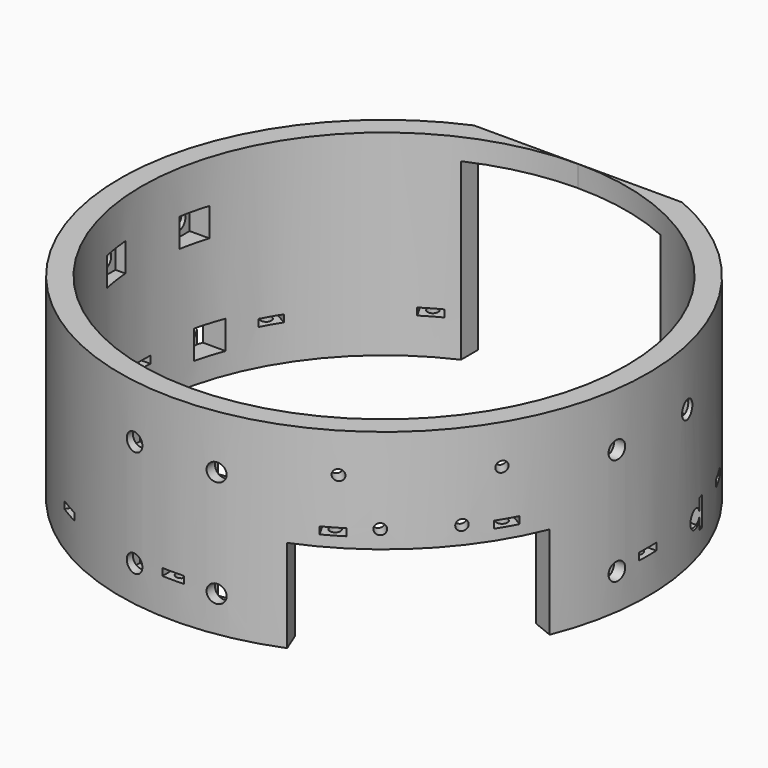
from build123d import *

# Parameters (mm, degrees)
CYLINDER1915_R               = 2.5
CYLINDER1915_DEPTH           = 40
CYLINDER1913_R               = 2.5
CYLINDER1913_DEPTH           = 40
COMPOUND1014_PLACEMENT_ANGLE = 90
CYLINDER1914_R               = 2.5
CYLINDER1914_DEPTH           = 40
CYLINDER1916_R               = 2.5
CYLINDER1916_DEPTH           = 40
COMPOUND1013_PLACEMENT_ANGLE = 90
CYLINDER1941_R               = 2.5
CYLINDER1941_DEPTH           = 40
CYLINDER1939_R               = 2.5
CYLINDER1939_DEPTH           = 40
CYLINDER1942_R               = 2.5
CYLINDER1942_DEPTH           = 40
CYLINDER1940_R               = 2.5
CYLINDER1940_DEPTH           = 40
CYLINDER1911_R               = 2.5
CYLINDER1911_DEPTH           = 40
CYLINDER1909_R               = 2.5
CYLINDER1909_DEPTH           = 40
CYLINDER1912_R               = 2.5
CYLINDER1912_DEPTH           = 40
CYLINDER1910_R               = 2.5
CYLINDER1910_DEPTH           = 40
BOX907_W                     = 8
BOX907_H                     = 2.5
BOX907_DEPTH                 = 8
BOX908_W                     = 8
BOX908_H                     = 2.5
BOX908_DEPTH                 = 8
COMPOUND1018_PLACEMENT_ANGLE = 90
BOX909_W                     = 8
BOX909_H                     = 2.5
BOX909_DEPTH                 = 8
BOX910_W                     = 8
BOX910_H                     = 2.5
BOX910_DEPTH                 = 8
COMPOUND1019_PLACEMENT_ANGLE = 90
BOX939_W                     = 8
BOX939_H                     = 2.5
BOX939_DEPTH                 = 8
BOX940_W                     = 8
BOX940_H                     = 2.5
BOX940_DEPTH                 = 8
BOX941_W                     = 8
BOX941_H                     = 2.5
BOX941_DEPTH                 = 8
BOX938_W                     = 8
BOX938_H                     = 2.5
BOX938_DEPTH                 = 8
BOX905_W                     = 8
BOX905_H                     = 2.5
BOX905_DEPTH                 = 8
BOX906_W                     = 8
BOX906_H                     = 2.5
BOX906_DEPTH                 = 8
BOX912_W                     = 8
BOX912_H                     = 2.5
BOX912_DEPTH                 = 8
BOX904_W                     = 8
BOX904_H                     = 2.5
BOX904_DEPTH                 = 8
BOX901_W                     = 8
BOX901_H                     = 20
BOX901_DEPTH                 = 8
BOX900_W                     = 8
BOX900_H                     = 20
BOX900_DEPTH                 = 8
COMPOUND1010_PLACEMENT_ANGLE = 90
BOX903_W                     = 8
BOX903_H                     = 20
BOX903_DEPTH                 = 8
BOX902_W                     = 8
BOX902_H                     = 20
BOX902_DEPTH                 = 8
COMPOUND1011_PLACEMENT_ANGLE = 90
BOX934_W                     = 8
BOX934_H                     = 20
BOX934_DEPTH                 = 8
BOX936_W                     = 8
BOX936_H                     = 20
BOX936_DEPTH                 = 8
BOX937_W                     = 8
BOX937_H                     = 20
BOX937_DEPTH                 = 8
BOX935_W                     = 8
BOX935_H                     = 20
BOX935_DEPTH                 = 8
BOX897_W                     = 8
BOX897_H                     = 20
BOX897_DEPTH                 = 8
BOX899_W                     = 8
BOX899_H                     = 20
BOX899_DEPTH                 = 8
BOX911_W                     = 8
BOX911_H                     = 20
BOX911_DEPTH                 = 8
BOX898_W                     = 8
BOX898_H                     = 20
BOX898_DEPTH                 = 8
BOX895_W                     = 6
BOX895_H                     = 4
BOX895_DEPTH                 = 6
BOX896_W                     = 6
BOX896_H                     = 4
BOX896_DEPTH                 = 6
COMPOUND1007_PLACEMENT_ANGLE = 225
CYLINDER1908_R               = 1.5
CYLINDER1908_DEPTH           = 50
COMPOUND1005_PLACEMENT_ANGLE = 225
CYLINDER1907_R               = 1.5
CYLINDER1907_DEPTH           = 50
COMPOUND1006_PLACEMENT_ANGLE = 225
BOX893_W                     = 6
BOX893_H                     = 4
BOX893_DEPTH                 = 6
BOX894_W                     = 6
BOX894_H                     = 4
BOX894_DEPTH                 = 6
COMPOUND1003_PLACEMENT_ANGLE = 225
CYLINDER1906_R               = 1.5
CYLINDER1906_DEPTH           = 50
COMPOUND1001_PLACEMENT_ANGLE = 225
CYLINDER1905_R               = 1.5
CYLINDER1905_DEPTH           = 50
COMPOUND999_PLACEMENT_ANGLE  = 225
CYLINDER1898_R               = 1.5
CYLINDER1898_DEPTH           = 72
CYLINDER1898_PLACEMENT_ANGLE = 30
CYLINDER1897_R               = 1.5
CYLINDER1897_DEPTH           = 72
CYLINDER1897_PLACEMENT_ANGLE = 60
CYLINDER1895_R               = 1.5
CYLINDER1895_DEPTH           = 72
CYLINDER1894_R               = 1.5
CYLINDER1894_DEPTH           = 72
CYLINDER1894_PLACEMENT_ANGLE = 120
CYLINDER1896_R               = 1.5
CYLINDER1896_DEPTH           = 72
CYLINDER1896_PLACEMENT_ANGLE = 150
CYLINDER1904_R               = 1.5
CYLINDER1904_DEPTH           = 72
CYLINDER1902_R               = 1.5
CYLINDER1902_DEPTH           = 72
CYLINDER1902_PLACEMENT_ANGLE = 210
CYLINDER1903_R               = 1.5
CYLINDER1903_DEPTH           = 72
CYLINDER1903_PLACEMENT_ANGLE = 240
CYLINDER1900_R               = 1.5
CYLINDER1900_DEPTH           = 72
CYLINDER1901_R               = 1.5
CYLINDER1901_DEPTH           = 72
CYLINDER1901_PLACEMENT_ANGLE = 60
CYLINDER1899_R               = 1.5
CYLINDER1899_DEPTH           = 72
CYLINDER1899_PLACEMENT_ANGLE = 30
CYLINDER1893_R               = 1.5
CYLINDER1893_DEPTH           = 72
BOX882_W                     = 6
BOX882_H                     = 8
BOX882_DEPTH                 = 2
BOX882_PLACEMENT_ANGLE       = 30
BOX887_W                     = 6
BOX887_H                     = 8
BOX887_DEPTH                 = 2
BOX887_PLACEMENT_ANGLE       = 60
BOX885_W                     = 6
BOX885_H                     = 8
BOX885_DEPTH                 = 2
BOX890_W                     = 6
BOX890_H                     = 8
BOX890_DEPTH                 = 2
BOX890_PLACEMENT_ANGLE       = 120
BOX884_W                     = 6
BOX884_H                     = 8
BOX884_DEPTH                 = 2
BOX884_PLACEMENT_ANGLE       = 150
BOX888_W                     = 6
BOX888_H                     = 8
BOX888_DEPTH                 = 2
BOX886_W                     = 6
BOX886_H                     = 8
BOX886_DEPTH                 = 2
BOX886_PLACEMENT_ANGLE       = 210
BOX892_W                     = 6
BOX892_H                     = 8
BOX892_DEPTH                 = 2
BOX892_PLACEMENT_ANGLE       = 240
BOX883_W                     = 6
BOX883_H                     = 8
BOX883_DEPTH                 = 2
BOX889_W                     = 6
BOX889_H                     = 8
BOX889_DEPTH                 = 2
BOX889_PLACEMENT_ANGLE       = 60
BOX891_W                     = 6
BOX891_H                     = 8
BOX891_DEPTH                 = 2
BOX891_PLACEMENT_ANGLE       = 30
BOX881_W                     = 6
BOX881_H                     = 8
BOX881_DEPTH                 = 2
BOX880_W                     = 200
BOX880_H                     = 200
BOX880_DEPTH                 = 60
BOX880_PLACEMENT_ANGLE       = 202
BOX878_W                     = 200
BOX878_H                     = 200
BOX878_DEPTH                 = 60
BOX878_PLACEMENT_ANGLE       = 22
BOX879_W                     = 200
BOX879_H                     = 120
BOX879_DEPTH                 = 60
BOX879_PLACEMENT_ANGLE       = 225
BOX877_W                     = 148
BOX877_H                     = 26
BOX877_DEPTH                 = 55
BOX876_W                     = 56
BOX876_H                     = 200
BOX876_DEPTH                 = 49
TUBE047_R                    = 74
TUBE047_R_2                  = 68
TUBE047_DEPTH                = 55


with BuildPart() as obj1:
    # Cylinder1915 → Cylinder1915 (new body)
    with BuildSketch(Plane(origin=(-86, -10, 69), x_dir=(0, 0, -1), z_dir=(1, 0, 0))):
        Circle(CYLINDER1915_R)
    extrude(amount=CYLINDER1915_DEPTH)


with BuildPart() as compound1014:
    # Cylinder1913 → Cylinder1913 (new body)
    with BuildSketch(Plane(origin=(-86, -10, 39), x_dir=(0, 0, -1), z_dir=(1, 0, 0))):
        Circle(CYLINDER1913_R)
    extrude(amount=CYLINDER1913_DEPTH)

    # Compound1014: union obj1
    add(obj1.part)


with BuildPart() as compound1014_1:
    # Compound1014 placement: moved
    add(compound1014.part.moved(Location((-21.5, 0, 0))).rotate(Axis((-21.5, 0, 0), (0, 0, 1)), COMPOUND1014_PLACEMENT_ANGLE))


with BuildPart() as obj2:
    # Cylinder1914 → Cylinder1914 (new body)
    with BuildSketch(Plane(origin=(-86, -10, 69), x_dir=(0, 0, -1), z_dir=(1, 0, 0))):
        Circle(CYLINDER1914_R)
    extrude(amount=CYLINDER1914_DEPTH)


with BuildPart() as compound1015:
    # Cylinder1916 → Cylinder1916 (new body)
    with BuildSketch(Plane(origin=(-86, -10, 39), x_dir=(0, 0, -1), z_dir=(1, 0, 0))):
        Circle(CYLINDER1916_R)
    extrude(amount=CYLINDER1916_DEPTH)

    # Compound1013: union obj2
    add(obj2.part)


with BuildPart() as compound1015_1:
    # Compound1013 placement: moved
    add(compound1015.part.moved(Location((1.5, 0, 0))).rotate(Axis((1.5, 0, 0), (0, 0, 1)), COMPOUND1013_PLACEMENT_ANGLE))

    # Compound1015: union Compound1014
    add(compound1014_1.part)


with BuildPart() as obj3:
    # Cylinder1941 → Cylinder1941 (new body)
    with BuildSketch(Plane(origin=(-86, 20, 39), x_dir=(0, 0, -1), z_dir=(1, 0, 0))):
        Circle(CYLINDER1941_R)
    extrude(amount=CYLINDER1941_DEPTH)


with BuildPart() as obj4:
    # Cylinder1939 → Cylinder1939 (new body)
    with BuildSketch(Plane(origin=(-86, -10, 69), x_dir=(0, 0, -1), z_dir=(1, 0, 0))):
        Circle(CYLINDER1939_R)
    extrude(amount=CYLINDER1939_DEPTH)


with BuildPart() as obj5:
    # Cylinder1942 → Cylinder1942 (new body)
    with BuildSketch(Plane(origin=(-86, 16, 68), x_dir=(0, 0, -1), z_dir=(1, 0, 0))):
        Circle(CYLINDER1942_R)
    extrude(amount=CYLINDER1942_DEPTH)


with BuildPart() as compound1026:
    # Cylinder1940 → Cylinder1940 (new body)
    with BuildSketch(Plane(origin=(-86, -10, 39), x_dir=(0, 0, -1), z_dir=(1, 0, 0))):
        Circle(CYLINDER1940_R)
    extrude(amount=CYLINDER1940_DEPTH)

    # Compound1026: union obj3, obj4, obj5
    add(obj3.part)
    add(obj4.part)
    add(obj5.part)


with BuildPart() as compound1000_mirrored:
    # mirror002: instance of Compound1026
    add(compound1026.part.mirror(Plane(origin=(0, 0, 0), x_dir=(0, -1, 0), z_dir=(1, 0, 0))))


with BuildPart() as obj6:
    # Cylinder1911 → Cylinder1911 (new body)
    with BuildSketch(Plane(origin=(-86, 20, 39), x_dir=(0, 0, -1), z_dir=(1, 0, 0))):
        Circle(CYLINDER1911_R)
    extrude(amount=CYLINDER1911_DEPTH)


with BuildPart() as obj7:
    # Cylinder1909 → Cylinder1909 (new body)
    with BuildSketch(Plane(origin=(-86, -10, 69), x_dir=(0, 0, -1), z_dir=(1, 0, 0))):
        Circle(CYLINDER1909_R)
    extrude(amount=CYLINDER1909_DEPTH)


with BuildPart() as obj8:
    # Cylinder1912 → Cylinder1912 (new body)
    with BuildSketch(Plane(origin=(-86, 16, 68), x_dir=(0, 0, -1), z_dir=(1, 0, 0))):
        Circle(CYLINDER1912_R)
    extrude(amount=CYLINDER1912_DEPTH)


with BuildPart() as compound1033:
    # Cylinder1910 → Cylinder1910 (new body)
    with BuildSketch(Plane(origin=(-86, -10, 39), x_dir=(0, 0, -1), z_dir=(1, 0, 0))):
        Circle(CYLINDER1910_R)
    extrude(amount=CYLINDER1910_DEPTH)

    # Compound1012: union obj6, obj7, obj8
    add(obj6.part)
    add(obj7.part)
    add(obj8.part)

    # Compound1033: union Compound1015, Compound1000 (mirrored)
    add(compound1015_1.part)
    add(compound1000_mirrored.part)


with BuildPart() as krychle907:
    # Box907 → Box907 (new body)
    with BuildSketch(Plane(origin=(-68, -14, 65), x_dir=(0, 1, 0), z_dir=(0, 0, 1))):
        with Locations((4, 1.25)):
            Rectangle(BOX907_W, BOX907_H)
    extrude(amount=BOX907_DEPTH)


with BuildPart() as compound1018:
    # Box908 → Box908 (new body)
    with BuildSketch(Plane(origin=(-68, -14, 35), x_dir=(0, 1, 0), z_dir=(0, 0, 1))):
        with Locations((4, 1.25)):
            Rectangle(BOX908_W, BOX908_H)
    extrude(amount=BOX908_DEPTH)

    # Compound1018: union Krychle907
    add(krychle907.part)


with BuildPart() as compound1018_1:
    # Compound1018 placement: moved
    add(compound1018.part.moved(Location((1.5, 0, 0))).rotate(Axis((1.5, 0, 0), (0, 0, 1)), COMPOUND1018_PLACEMENT_ANGLE))


with BuildPart() as krychle909:
    # Box909 → Box909 (new body)
    with BuildSketch(Plane(origin=(-68, -14, 65), x_dir=(0, 1, 0), z_dir=(0, 0, 1))):
        with Locations((4, 1.25)):
            Rectangle(BOX909_W, BOX909_H)
    extrude(amount=BOX909_DEPTH)


with BuildPart() as compound1017:
    # Box910 → Box910 (new body)
    with BuildSketch(Plane(origin=(-68, -14, 35), x_dir=(0, 1, 0), z_dir=(0, 0, 1))):
        with Locations((4, 1.25)):
            Rectangle(BOX910_W, BOX910_H)
    extrude(amount=BOX910_DEPTH)

    # Compound1019: union Krychle909
    add(krychle909.part)


with BuildPart() as compound1017_1:
    # Compound1019 placement: moved
    add(compound1017.part.moved(Location((-21.5, 0, 0))).rotate(Axis((-21.5, 0, 0), (0, 0, 1)), COMPOUND1019_PLACEMENT_ANGLE))

    # Compound1017: union Compound1018
    add(compound1018_1.part)


with BuildPart() as krychle939:
    # Box939 → Box939 (new body)
    with BuildSketch(Plane(origin=(-68, 16, 35), x_dir=(0, 1, 0), z_dir=(0, 0, 1))):
        with Locations((4, 1.25)):
            Rectangle(BOX939_W, BOX939_H)
    extrude(amount=BOX939_DEPTH)


with BuildPart() as krychle940:
    # Box940 → Box940 (new body)
    with BuildSketch(Plane(origin=(-68, -14, 65), x_dir=(0, 1, 0), z_dir=(0, 0, 1))):
        with Locations((4, 1.25)):
            Rectangle(BOX940_W, BOX940_H)
    extrude(amount=BOX940_DEPTH)


with BuildPart() as krychle941:
    # Box941 → Box941 (new body)
    with BuildSketch(Plane(origin=(-68, 12, 64), x_dir=(0, 1, 0), z_dir=(0, 0, 1))):
        with Locations((4, 1.25)):
            Rectangle(BOX941_W, BOX941_H)
    extrude(amount=BOX941_DEPTH)


with BuildPart() as compound1024:
    # Box938 → Box938 (new body)
    with BuildSketch(Plane(origin=(-68, -14, 35), x_dir=(0, 1, 0), z_dir=(0, 0, 1))):
        with Locations((4, 1.25)):
            Rectangle(BOX938_W, BOX938_H)
    extrude(amount=BOX938_DEPTH)

    # Compound1024: union Krychle939, Krychle940, Krychle941
    add(krychle939.part)
    add(krychle940.part)
    add(krychle941.part)


with BuildPart() as compound999_mirrored:
    # mirror001: instance of Compound1024
    add(compound1024.part.mirror(Plane(origin=(0, 0, 0), x_dir=(0, -1, 0), z_dir=(1, 0, 0))))


with BuildPart() as krychle905:
    # Box905 → Box905 (new body)
    with BuildSketch(Plane(origin=(-68, 16, 35), x_dir=(0, 1, 0), z_dir=(0, 0, 1))):
        with Locations((4, 1.25)):
            Rectangle(BOX905_W, BOX905_H)
    extrude(amount=BOX905_DEPTH)


with BuildPart() as krychle906:
    # Box906 → Box906 (new body)
    with BuildSketch(Plane(origin=(-68, -14, 65), x_dir=(0, 1, 0), z_dir=(0, 0, 1))):
        with Locations((4, 1.25)):
            Rectangle(BOX906_W, BOX906_H)
    extrude(amount=BOX906_DEPTH)


with BuildPart() as krychle912:
    # Box912 → Box912 (new body)
    with BuildSketch(Plane(origin=(-68, 12, 64), x_dir=(0, 1, 0), z_dir=(0, 0, 1))):
        with Locations((4, 1.25)):
            Rectangle(BOX912_W, BOX912_H)
    extrude(amount=BOX912_DEPTH)


with BuildPart() as compound1030:
    # Box904 → Box904 (new body)
    with BuildSketch(Plane(origin=(-68, -14, 35), x_dir=(0, 1, 0), z_dir=(0, 0, 1))):
        with Locations((4, 1.25)):
            Rectangle(BOX904_W, BOX904_H)
    extrude(amount=BOX904_DEPTH)

    # Compound1016: union Krychle905, Krychle906, Krychle912
    add(krychle905.part)
    add(krychle906.part)
    add(krychle912.part)

    # Compound1030: union Compound1017, Compound999 (mirrored)
    add(compound1017_1.part)
    add(compound999_mirrored.part)


with BuildPart() as krychle901:
    # Box901 → Box901 (new body)
    with BuildSketch(Plane(origin=(-48, -14, 65), x_dir=(0, 1, 0), z_dir=(0, 0, 1))):
        with Locations((4, 10)):
            Rectangle(BOX901_W, BOX901_H)
    extrude(amount=BOX901_DEPTH)


with BuildPart() as compound1010:
    # Box900 → Box900 (new body)
    with BuildSketch(Plane(origin=(-48, -14, 35), x_dir=(0, 1, 0), z_dir=(0, 0, 1))):
        with Locations((4, 10)):
            Rectangle(BOX900_W, BOX900_H)
    extrude(amount=BOX900_DEPTH)

    # Compound1010: union Krychle901
    add(krychle901.part)


with BuildPart() as compound1010_1:
    # Compound1010 placement: moved
    add(compound1010.part.moved(Location((1.5, 0, 0))).rotate(Axis((1.5, 0, 0), (0, 0, 1)), COMPOUND1010_PLACEMENT_ANGLE))


with BuildPart() as krychle903:
    # Box903 → Box903 (new body)
    with BuildSketch(Plane(origin=(-48, -14, 65), x_dir=(0, 1, 0), z_dir=(0, 0, 1))):
        with Locations((4, 10)):
            Rectangle(BOX903_W, BOX903_H)
    extrude(amount=BOX903_DEPTH)


with BuildPart() as compound1009:
    # Box902 → Box902 (new body)
    with BuildSketch(Plane(origin=(-48, -14, 35), x_dir=(0, 1, 0), z_dir=(0, 0, 1))):
        with Locations((4, 10)):
            Rectangle(BOX902_W, BOX902_H)
    extrude(amount=BOX902_DEPTH)

    # Compound1011: union Krychle903
    add(krychle903.part)


with BuildPart() as compound1009_1:
    # Compound1011 placement: moved
    add(compound1009.part.moved(Location((-21.5, 0, 0))).rotate(Axis((-21.5, 0, 0), (0, 0, 1)), COMPOUND1011_PLACEMENT_ANGLE))

    # Compound1009: union Compound1010
    add(compound1010_1.part)


with BuildPart() as krychle934:
    # Box934 → Box934 (new body)
    with BuildSketch(Plane(origin=(-48, 16, 35), x_dir=(0, 1, 0), z_dir=(0, 0, 1))):
        with Locations((4, 10)):
            Rectangle(BOX934_W, BOX934_H)
    extrude(amount=BOX934_DEPTH)


with BuildPart() as krychle936:
    # Box936 → Box936 (new body)
    with BuildSketch(Plane(origin=(-48, -14, 65), x_dir=(0, 1, 0), z_dir=(0, 0, 1))):
        with Locations((4, 10)):
            Rectangle(BOX936_W, BOX936_H)
    extrude(amount=BOX936_DEPTH)


with BuildPart() as krychle937:
    # Box937 → Box937 (new body)
    with BuildSketch(Plane(origin=(-48, 12, 64), x_dir=(0, 1, 0), z_dir=(0, 0, 1))):
        with Locations((4, 10)):
            Rectangle(BOX937_W, BOX937_H)
    extrude(amount=BOX937_DEPTH)


with BuildPart() as compound1034:
    # Box935 → Box935 (new body)
    with BuildSketch(Plane(origin=(-48, -14, 35), x_dir=(0, 1, 0), z_dir=(0, 0, 1))):
        with Locations((4, 10)):
            Rectangle(BOX935_W, BOX935_H)
    extrude(amount=BOX935_DEPTH)

    # Compound1034: union Krychle934, Krychle936, Krychle937
    add(krychle934.part)
    add(krychle936.part)
    add(krychle937.part)


with BuildPart() as compound998_mirrored:
    # mirror013: instance of Compound1034
    add(compound1034.part.mirror(Plane(origin=(0, 0, 0), x_dir=(0, -1, 0), z_dir=(1, 0, 0))))


with BuildPart() as krychle897:
    # Box897 → Box897 (new body)
    with BuildSketch(Plane(origin=(-48, 16, 35), x_dir=(0, 1, 0), z_dir=(0, 0, 1))):
        with Locations((4, 10)):
            Rectangle(BOX897_W, BOX897_H)
    extrude(amount=BOX897_DEPTH)


with BuildPart() as krychle899:
    # Box899 → Box899 (new body)
    with BuildSketch(Plane(origin=(-48, -14, 65), x_dir=(0, 1, 0), z_dir=(0, 0, 1))):
        with Locations((4, 10)):
            Rectangle(BOX899_W, BOX899_H)
    extrude(amount=BOX899_DEPTH)


with BuildPart() as krychle911:
    # Box911 → Box911 (new body)
    with BuildSketch(Plane(origin=(-48, 12, 64), x_dir=(0, 1, 0), z_dir=(0, 0, 1))):
        with Locations((4, 10)):
            Rectangle(BOX911_W, BOX911_H)
    extrude(amount=BOX911_DEPTH)


with BuildPart() as compound1037:
    # Box898 → Box898 (new body)
    with BuildSketch(Plane(origin=(-48, -14, 35), x_dir=(0, 1, 0), z_dir=(0, 0, 1))):
        with Locations((4, 10)):
            Rectangle(BOX898_W, BOX898_H)
    extrude(amount=BOX898_DEPTH)

    # Compound1008: union Krychle897, Krychle899, Krychle911
    add(krychle897.part)
    add(krychle899.part)
    add(krychle911.part)

    # Compound1037: union Compound1009, Compound998 (mirrored)
    add(compound1009_1.part)
    add(compound998_mirrored.part)


with BuildPart() as krychle895:
    # Box895 → Box895 (new body)
    with BuildSketch(Plane(origin=(6, 66, -63), x_dir=(1, 0, 0), z_dir=(0, 0, 1))):
        with Locations((3, 2)):
            Rectangle(BOX895_W, BOX895_H)
    extrude(amount=BOX895_DEPTH)


with BuildPart() as compound1007:
    # Box896 → Box896 (new body)
    with BuildSketch(Plane(origin=(-12, 66, -63), x_dir=(1, 0, 0), z_dir=(0, 0, 1))):
        with Locations((3, 2)):
            Rectangle(BOX896_W, BOX896_H)
    extrude(amount=BOX896_DEPTH)

    # Compound1007: union Krychle895
    add(krychle895.part)


with BuildPart() as compound1007_1:
    # Compound1007 placement: moved
    add(compound1007.part.moved(Location((0, 0, 120))).rotate(Axis((0, 0, 120), (0, 0, 1)), COMPOUND1007_PLACEMENT_ANGLE))


with BuildPart() as compound1005:
    # Cylinder1908 → Cylinder1908 (new body)
    with BuildSketch(Plane(origin=(9, 100, 59), x_dir=(1, 0, 0), z_dir=(0, -1, 0))):
        Circle(CYLINDER1908_R)
    extrude(amount=CYLINDER1908_DEPTH)


with BuildPart() as compound1005_1:
    # Compound1005 placement: moved
    add(compound1005.part.rotate(Axis((0, 0, 0), (0, 0, 1)), COMPOUND1005_PLACEMENT_ANGLE))


with BuildPart() as compound1004:
    # Cylinder1907 → Cylinder1907 (new body)
    with BuildSketch(Plane(origin=(-9, 100, 59), x_dir=(1, 0, 0), z_dir=(0, -1, 0))):
        Circle(CYLINDER1907_R)
    extrude(amount=CYLINDER1907_DEPTH)


with BuildPart() as compound1004_1:
    # Compound1006 placement: moved
    add(compound1004.part.rotate(Axis((0, 0, 0), (0, 0, 1)), COMPOUND1006_PLACEMENT_ANGLE))

    # Compound1004: union Compound1005
    add(compound1005_1.part)


with BuildPart() as compound1004_2:
    # Compound1004 placement: moved
    add(compound1004_1.part.moved(Location((0, 0, 1))))


with BuildPart() as krychle893:
    # Box893 → Box893 (new body)
    with BuildSketch(Plane(origin=(15, 64, -50), x_dir=(1, 0, 0), z_dir=(0, 0, 1))):
        with Locations((3, 2)):
            Rectangle(BOX893_W, BOX893_H)
    extrude(amount=BOX893_DEPTH)


with BuildPart() as compound1003:
    # Box894 → Box894 (new body)
    with BuildSketch(Plane(origin=(-21, 64, -50), x_dir=(1, 0, 0), z_dir=(0, 0, 1))):
        with Locations((3, 2)):
            Rectangle(BOX894_W, BOX894_H)
    extrude(amount=BOX894_DEPTH)

    # Compound1003: union Krychle893
    add(krychle893.part)


with BuildPart() as compound1003_1:
    # Compound1003 placement: moved
    add(compound1003.part.moved(Location((0, 0, 120))).rotate(Axis((0, 0, 120), (0, 0, 1)), COMPOUND1003_PLACEMENT_ANGLE))


with BuildPart() as compound1001:
    # Cylinder1906 → Cylinder1906 (new body)
    with BuildSketch(Plane(origin=(18, 100, 72), x_dir=(1, 0, 0), z_dir=(0, -1, 0))):
        Circle(CYLINDER1906_R)
    extrude(amount=CYLINDER1906_DEPTH)


with BuildPart() as compound1001_1:
    # Compound1001 placement: moved
    add(compound1001.part.rotate(Axis((0, 0, 0), (0, 0, 1)), COMPOUND1001_PLACEMENT_ANGLE))


with BuildPart() as compound1002:
    # Cylinder1905 → Cylinder1905 (new body)
    with BuildSketch(Plane(origin=(-18, 100, 72), x_dir=(1, 0, 0), z_dir=(0, -1, 0))):
        Circle(CYLINDER1905_R)
    extrude(amount=CYLINDER1905_DEPTH)


with BuildPart() as compound1002_1:
    # Compound999 placement: moved
    add(compound1002.part.rotate(Axis((0, 0, 0), (0, 0, 1)), COMPOUND999_PLACEMENT_ANGLE))

    # Compound1002: union Compound1001
    add(compound1001_1.part)


with BuildPart() as compound1002_2:
    # Compound1002 placement: moved
    add(compound1002_1.part.moved(Location((0, 0, 1))))


with BuildPart() as obj9:
    # Cylinder1898 → Cylinder1898 (new body)
    with BuildSketch(Plane.XY):
        Circle(CYLINDER1898_R)
    extrude(amount=CYLINDER1898_DEPTH)


with BuildPart() as obj9_1:
    # Cylinder1898 placement: moved
    add(obj9.part.moved(Location((35.5, -61.487804, 0))).rotate(Axis((35.5, -61.487804, 0), (0, 0, 1)), CYLINDER1898_PLACEMENT_ANGLE))


with BuildPart() as obj10:
    # Cylinder1897 → Cylinder1897 (new body)
    with BuildSketch(Plane.XY):
        Circle(CYLINDER1897_R)
    extrude(amount=CYLINDER1897_DEPTH)


with BuildPart() as obj10_1:
    # Cylinder1897 placement: moved
    add(obj10.part.moved(Location((61.487804, -35.5, 0))).rotate(Axis((61.487804, -35.5, 0), (0, 0, 1)), CYLINDER1897_PLACEMENT_ANGLE))


with BuildPart() as obj11:
    # Cylinder1895 → Cylinder1895 (new body)
    with BuildSketch(Plane(origin=(71, 0, 0), x_dir=(0, 1, 0), z_dir=(0, 0, 1))):
        Circle(CYLINDER1895_R)
    extrude(amount=CYLINDER1895_DEPTH)


with BuildPart() as obj12:
    # Cylinder1894 → Cylinder1894 (new body)
    with BuildSketch(Plane.XY):
        Circle(CYLINDER1894_R)
    extrude(amount=CYLINDER1894_DEPTH)


with BuildPart() as obj12_1:
    # Cylinder1894 placement: moved
    add(obj12.part.moved(Location((61.487804, 35.5, 0))).rotate(Axis((61.487804, 35.5, 0), (0, 0, 1)), CYLINDER1894_PLACEMENT_ANGLE))


with BuildPart() as obj13:
    # Cylinder1896 → Cylinder1896 (new body)
    with BuildSketch(Plane.XY):
        Circle(CYLINDER1896_R)
    extrude(amount=CYLINDER1896_DEPTH)


with BuildPart() as obj13_1:
    # Cylinder1896 placement: moved
    add(obj13.part.moved(Location((35.5, 61.487804, 0))).rotate(Axis((35.5, 61.487804, 0), (0, 0, 1)), CYLINDER1896_PLACEMENT_ANGLE))


with BuildPart() as obj14:
    # Cylinder1904 → Cylinder1904 (new body)
    with BuildSketch(Plane(origin=(0, 71, 0), x_dir=(-1, 0, 0), z_dir=(0, 0, 1))):
        Circle(CYLINDER1904_R)
    extrude(amount=CYLINDER1904_DEPTH)


with BuildPart() as obj15:
    # Cylinder1902 → Cylinder1902 (new body)
    with BuildSketch(Plane.XY):
        Circle(CYLINDER1902_R)
    extrude(amount=CYLINDER1902_DEPTH)


with BuildPart() as obj15_1:
    # Cylinder1902 placement: moved
    add(obj15.part.moved(Location((-35.5, 61.487804, 0))).rotate(Axis((-35.5, 61.487804, 0), (0, 0, 1)), CYLINDER1902_PLACEMENT_ANGLE))


with BuildPart() as obj16:
    # Cylinder1903 → Cylinder1903 (new body)
    with BuildSketch(Plane.XY):
        Circle(CYLINDER1903_R)
    extrude(amount=CYLINDER1903_DEPTH)


with BuildPart() as obj16_1:
    # Cylinder1903 placement: moved
    add(obj16.part.moved(Location((-61.487804, 35.5, 0))).rotate(Axis((-61.487804, 35.5, 0), (0, 0, 1)), CYLINDER1903_PLACEMENT_ANGLE))


with BuildPart() as obj17:
    # Cylinder1900 → Cylinder1900 (new body)
    with BuildSketch(Plane(origin=(-71, 0, 0), x_dir=(0, -1, 0), z_dir=(0, 0, 1))):
        Circle(CYLINDER1900_R)
    extrude(amount=CYLINDER1900_DEPTH)


with BuildPart() as obj18:
    # Cylinder1901 → Cylinder1901 (new body)
    with BuildSketch(Plane.XY):
        Circle(CYLINDER1901_R)
    extrude(amount=CYLINDER1901_DEPTH)


with BuildPart() as obj18_1:
    # Cylinder1901 placement: moved
    add(obj18.part.moved(Location((-61.487804, -35.5, 0))).rotate(Axis((-61.487804, -35.5, 0), (0, 0, -1)), CYLINDER1901_PLACEMENT_ANGLE))


with BuildPart() as obj19:
    # Cylinder1899 → Cylinder1899 (new body)
    with BuildSketch(Plane.XY):
        Circle(CYLINDER1899_R)
    extrude(amount=CYLINDER1899_DEPTH)


with BuildPart() as obj19_1:
    # Cylinder1899 placement: moved
    add(obj19.part.moved(Location((-35.5, -61.487804, 0))).rotate(Axis((-35.5, -61.487804, 0), (0, 0, -1)), CYLINDER1899_PLACEMENT_ANGLE))


with BuildPart() as compound1000:
    # Cylinder1893 → Cylinder1893 (new body)
    with BuildSketch(Plane(origin=(0, -71, 0), x_dir=(1, 0, 0), z_dir=(0, 0, 1))):
        Circle(CYLINDER1893_R)
    extrude(amount=CYLINDER1893_DEPTH)

    # Compound1000: union obj9, obj10, obj11, obj12, obj13, obj14, obj15, obj16, obj17, obj18, obj19
    add(obj9_1.part)
    add(obj10_1.part)
    add(obj11.part)
    add(obj12_1.part)
    add(obj13_1.part)
    add(obj14.part)
    add(obj15_1.part)
    add(obj16_1.part)
    add(obj17.part)
    add(obj18_1.part)
    add(obj19_1.part)


with BuildPart() as compound1000_1:
    # Compound1000 placement: moved
    add(compound1000.part.moved(Location((0, 0, -4))))


with BuildPart() as krychle882:
    # Box882 → Box882 (new body)
    with BuildSketch(Plane.XY):
        with Locations((3, 4)):
            Rectangle(BOX882_W, BOX882_H)
    extrude(amount=BOX882_DEPTH)


with BuildPart() as krychle882_1:
    # Box882 placement: moved
    add(krychle882.part.moved(Location((34.9, -66.45, 58))).rotate(Axis((34.9, -66.45, 58), (0, 0, 1)), BOX882_PLACEMENT_ANGLE))


with BuildPart() as krychle887:
    # Box887 → Box887 (new body)
    with BuildSketch(Plane.XY):
        with Locations((3, 4)):
            Rectangle(BOX887_W, BOX887_H)
    extrude(amount=BOX887_DEPTH)


with BuildPart() as krychle887_1:
    # Box887 placement: moved
    add(krychle887.part.moved(Location((63.45, -40.1, 58))).rotate(Axis((63.45, -40.1, 58), (0, 0, 1)), BOX887_PLACEMENT_ANGLE))


with BuildPart() as krychle885:
    # Box885 → Box885 (new body)
    with BuildSketch(Plane(origin=(75, -3, 39), x_dir=(0, 1, 0), z_dir=(0, 0, 1))):
        with Locations((3, 4)):
            Rectangle(BOX885_W, BOX885_H)
    extrude(amount=BOX885_DEPTH)


with BuildPart() as krychle890:
    # Box890 → Box890 (new body)
    with BuildSketch(Plane.XY):
        with Locations((3, 4)):
            Rectangle(BOX890_W, BOX890_H)
    extrude(amount=BOX890_DEPTH)


with BuildPart() as krychle890_1:
    # Box890 placement: moved
    add(krychle890.part.moved(Location((66.451905, 34.901924, 39))).rotate(Axis((66.451905, 34.901924, 39), (0, 0, 1)), BOX890_PLACEMENT_ANGLE))


with BuildPart() as krychle884:
    # Box884 → Box884 (new body)
    with BuildSketch(Plane.XY):
        with Locations((3, 4)):
            Rectangle(BOX884_W, BOX884_H)
    extrude(amount=BOX884_DEPTH)


with BuildPart() as krychle884_1:
    # Box884 placement: moved
    add(krychle884.part.moved(Location((40.098076, 63.451905, 39))).rotate(Axis((40.098076, 63.451905, 39), (0, 0, 1)), BOX884_PLACEMENT_ANGLE))


with BuildPart() as krychle888:
    # Box888 → Box888 (new body)
    with BuildSketch(Plane(origin=(3, 75, 39), x_dir=(-1, 0, 0), z_dir=(0, 0, 1))):
        with Locations((3, 4)):
            Rectangle(BOX888_W, BOX888_H)
    extrude(amount=BOX888_DEPTH)


with BuildPart() as krychle886:
    # Box886 → Box886 (new body)
    with BuildSketch(Plane.XY):
        with Locations((3, 4)):
            Rectangle(BOX886_W, BOX886_H)
    extrude(amount=BOX886_DEPTH)


with BuildPart() as krychle886_1:
    # Box886 placement: moved
    add(krychle886.part.moved(Location((-34.901924, 66.451905, 39))).rotate(Axis((-34.901924, 66.451905, 39), (0, 0, 1)), BOX886_PLACEMENT_ANGLE))


with BuildPart() as krychle892:
    # Box892 → Box892 (new body)
    with BuildSketch(Plane.XY):
        with Locations((3, 4)):
            Rectangle(BOX892_W, BOX892_H)
    extrude(amount=BOX892_DEPTH)


with BuildPart() as krychle892_1:
    # Box892 placement: moved
    add(krychle892.part.moved(Location((-63.451905, 40.098076, 39))).rotate(Axis((-63.451905, 40.098076, 39), (0, 0, 1)), BOX892_PLACEMENT_ANGLE))


with BuildPart() as krychle883:
    # Box883 → Box883 (new body)
    with BuildSketch(Plane(origin=(-75, 3, 39), x_dir=(0, -1, 0), z_dir=(0, 0, 1))):
        with Locations((3, 4)):
            Rectangle(BOX883_W, BOX883_H)
    extrude(amount=BOX883_DEPTH)


with BuildPart() as krychle889:
    # Box889 → Box889 (new body)
    with BuildSketch(Plane.XY):
        with Locations((3, 4)):
            Rectangle(BOX889_W, BOX889_H)
    extrude(amount=BOX889_DEPTH)


with BuildPart() as krychle889_1:
    # Box889 placement: moved
    add(krychle889.part.moved(Location((-66.451905, -34.901924, 39))).rotate(Axis((-66.451905, -34.901924, 39), (0, 0, -1)), BOX889_PLACEMENT_ANGLE))


with BuildPart() as krychle891:
    # Box891 → Box891 (new body)
    with BuildSketch(Plane.XY):
        with Locations((3, 4)):
            Rectangle(BOX891_W, BOX891_H)
    extrude(amount=BOX891_DEPTH)


with BuildPart() as krychle891_1:
    # Box891 placement: moved
    add(krychle891.part.moved(Location((-40.098076, -63.451905, 39))).rotate(Axis((-40.098076, -63.451905, 39), (0, 0, -1)), BOX891_PLACEMENT_ANGLE))


with BuildPart() as compound998:
    # Box881 → Box881 (new body)
    with BuildSketch(Plane(origin=(-3, -75, 39), x_dir=(1, 0, 0), z_dir=(0, 0, 1))):
        with Locations((3, 4)):
            Rectangle(BOX881_W, BOX881_H)
    extrude(amount=BOX881_DEPTH)

    # Compound998: union Krychle882, Krychle887, Krychle885, Krychle890, Krychle884, Krychle888, Krychle886, Krychle892, Krychle883, Krychle889, Krychle891
    add(krychle882_1.part)
    add(krychle887_1.part)
    add(krychle885.part)
    add(krychle890_1.part)
    add(krychle884_1.part)
    add(krychle888.part)
    add(krychle886_1.part)
    add(krychle892_1.part)
    add(krychle883.part)
    add(krychle889_1.part)
    add(krychle891_1.part)


with BuildPart() as krychle880:
    # Box880 → Box880 (new body)
    with BuildSketch(Plane.XY):
        with Locations((100, 100)):
            Rectangle(BOX880_W, BOX880_H)
    extrude(amount=BOX880_DEPTH)


with BuildPart() as krychle880_1:
    # Box880 placement: moved
    add(krychle880.part.moved(Location((0, 0, -5))).rotate(Axis((0, 0, -5), (0, 0, 1)), BOX880_PLACEMENT_ANGLE))


with BuildPart() as krychle878:
    # Box878 → Box878 (new body)
    with BuildSketch(Plane.XY):
        with Locations((100, 100)):
            Rectangle(BOX878_W, BOX878_H)
    extrude(amount=BOX878_DEPTH)


with BuildPart() as krychle878_1:
    # Box878 placement: moved
    add(krychle878.part.moved(Location((0, 0, -5))).rotate(Axis((0, 0, -5), (0, 0, -1)), BOX878_PLACEMENT_ANGLE))


with BuildPart() as cut629:
    # Box879 → Box879 (new body)
    with BuildSketch(Plane.XY):
        with Locations((100, 60)):
            Rectangle(BOX879_W, BOX879_H)
    extrude(amount=BOX879_DEPTH)


with BuildPart() as cut629_1:
    # Box879 placement: moved
    add(cut629.part.moved(Location((70.710678, 70.710678, -5))).rotate(Axis((70.710678, 70.710678, -5), (0, 0, 1)), BOX879_PLACEMENT_ANGLE))

    # Cut628: cut Krychle878
    add(krychle878_1.part, mode=Mode.SUBTRACT)

    # Cut629: cut Krychle880
    add(krychle880_1.part, mode=Mode.SUBTRACT)


with BuildPart() as krychle877:
    # Box877 → Box877 (new body)
    with BuildSketch(Plane(origin=(-74, 68, 29), x_dir=(1, 0, 0), z_dir=(0, 0, 1))):
        with Locations((74, 13)):
            Rectangle(BOX877_W, BOX877_H)
    extrude(amount=BOX877_DEPTH)


with BuildPart() as krychle876:
    # Box876 → Box876 (new body)
    with BuildSketch(Plane(origin=(-28, 35, 29), x_dir=(1, 0, 0), z_dir=(0, 0, 1))):
        with Locations((28, 100)):
            Rectangle(BOX876_W, BOX876_H)
    extrude(amount=BOX876_DEPTH)


with BuildPart() as cut624:
    # Tube047 → Tube047 (new body)
    with BuildSketch(Plane.XY.offset(29)):
        Circle(TUBE047_R)
        Circle(TUBE047_R_2, mode=Mode.SUBTRACT)
    extrude(amount=TUBE047_DEPTH)

    # Cut622: cut Krychle876
    add(krychle876.part, mode=Mode.SUBTRACT)

    # Cut621: cut Krychle877
    add(krychle877.part, mode=Mode.SUBTRACT)

    # Cut630: cut Cut629
    add(cut629_1.part, mode=Mode.SUBTRACT)

    # Cut631: cut Compound998
    add(compound998.part, mode=Mode.SUBTRACT)

    # Cut632: cut Compound1000
    add(compound1000_1.part, mode=Mode.SUBTRACT)

    # Cut633: cut Compound1002
    add(compound1002_2.part, mode=Mode.SUBTRACT)

    # Cut634: cut Compound1003
    add(compound1003_1.part, mode=Mode.SUBTRACT)

    # Cut635: cut Compound1004
    add(compound1004_2.part, mode=Mode.SUBTRACT)

    # Cut636: cut Compound1007
    add(compound1007_1.part, mode=Mode.SUBTRACT)

    # Cut637: cut Compound1037
    add(compound1037.part, mode=Mode.SUBTRACT)

    # Cut623: cut Compound1030
    add(compound1030.part, mode=Mode.SUBTRACT)

    # Cut624: cut Compound1033
    add(compound1033.part, mode=Mode.SUBTRACT)


solid = cut624.part
